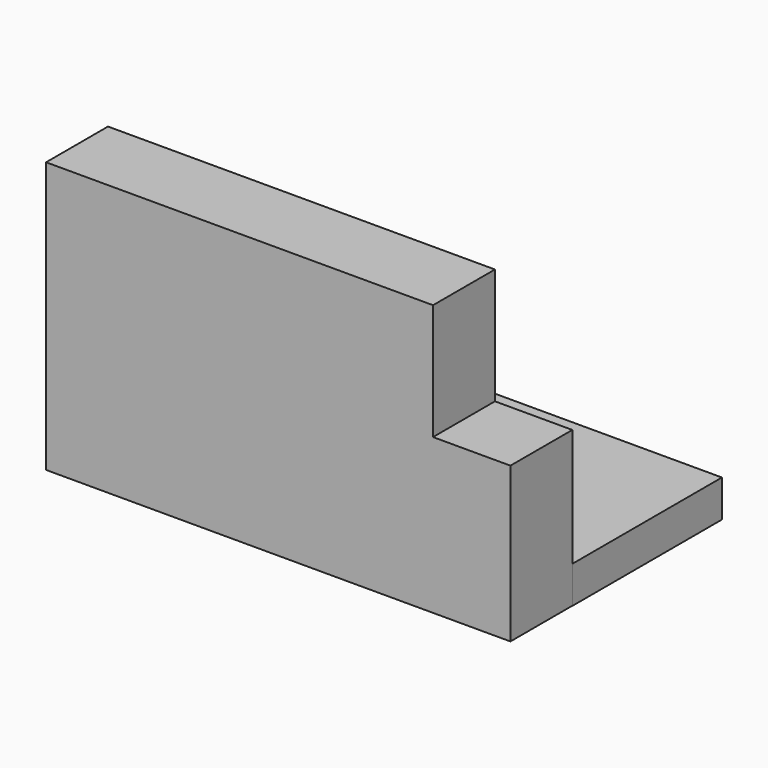
from build123d import *

# Parameters (mm, degrees)
F0_W     = 152.4
F0_H     = 50.8
F2_DEPTH = 25.4
F1_W     = 127
F1_H     = 38.1
F3_DEPTH = 25.4
F4_W     = 61.2871721387
F4_H     = 12.1671258756
F5_DEPTH = 78.74
F6_W     = 73.1669291854
F6_H     = 12.5516466796
F7_DEPTH = 60.96


with BuildPart() as f2:
    # F0 (on Front) → F2 (new body)
    with BuildSketch(Plane.XZ):
        with Locations((2.4711750448, -43.9968049534)):
            Rectangle(F0_W, F0_H)
    extrude(amount=F2_DEPTH)

    # F1 (on Front) → F3 (join)
    with BuildSketch(Plane.XZ):
        with Locations((-10.2288249552, 0.4531950466)):
            Rectangle(F1_W, F1_H)
    extrude(amount=F3_DEPTH)

    # F4 (on Right) → F5 (join)
    with BuildSketch(Plane.YZ):
        with Locations((30.6435860693, -63.3132420157)):
            Rectangle(F4_W, F4_H)
    extrude(amount=F5_DEPTH)

    # F6 (on Front) → F7 (join)
    with BuildSketch(Plane.XZ):
        with Locations((-36.5834645927, -63.2174480706)):
            Rectangle(F6_W, F6_H)
    extrude(amount=-F7_DEPTH)


solid = f2.part
